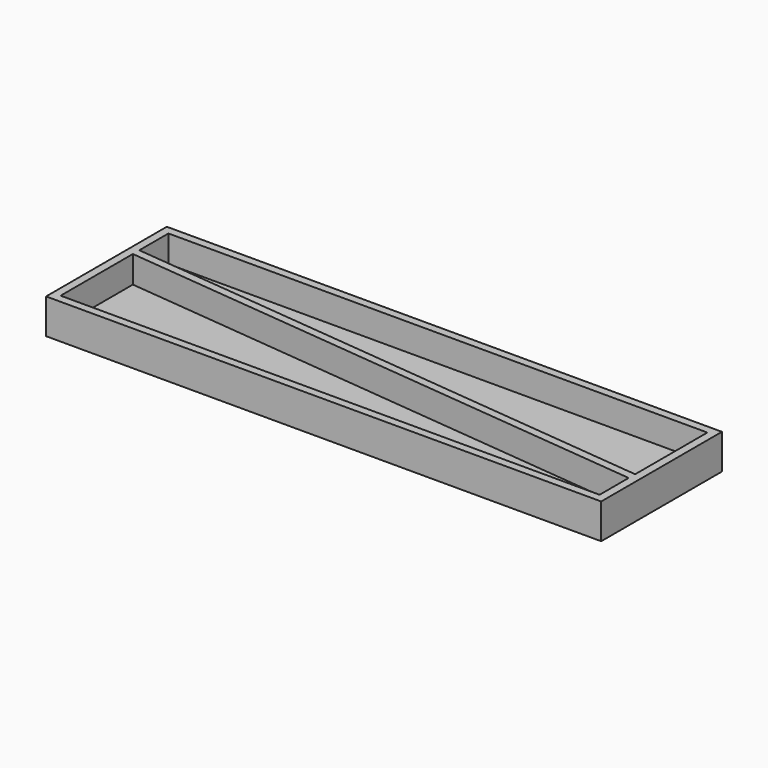
from build123d import *

# Parameters (mm, degrees)
F0_W     = 206
F0_H     = 56
F1_DEPTH = 3
F2_W     = 206
F2_H     = 56
F3_DEPTH = 10


with BuildPart() as f1:
    # F0 (on Top) → F1 (new body)
    with BuildSketch(Plane.XY):
        Rectangle(F0_W, F0_H)
    extrude(amount=F1_DEPTH)

    # F2 (on face) → F3 (join)
    with BuildSketch(Plane.XY.offset(3)):
        Rectangle(F2_W, F2_H)
        Polygon((100, -25), (-100, -25), (-100, 8.5), (100, -11.5), align=None, mode=Mode.SUBTRACT)
        Polygon((-100, 11.5), (-100, 25), (100, 25), (100, -8.5), align=None, mode=Mode.SUBTRACT)
    extrude(amount=F3_DEPTH)


solid = f1.part
